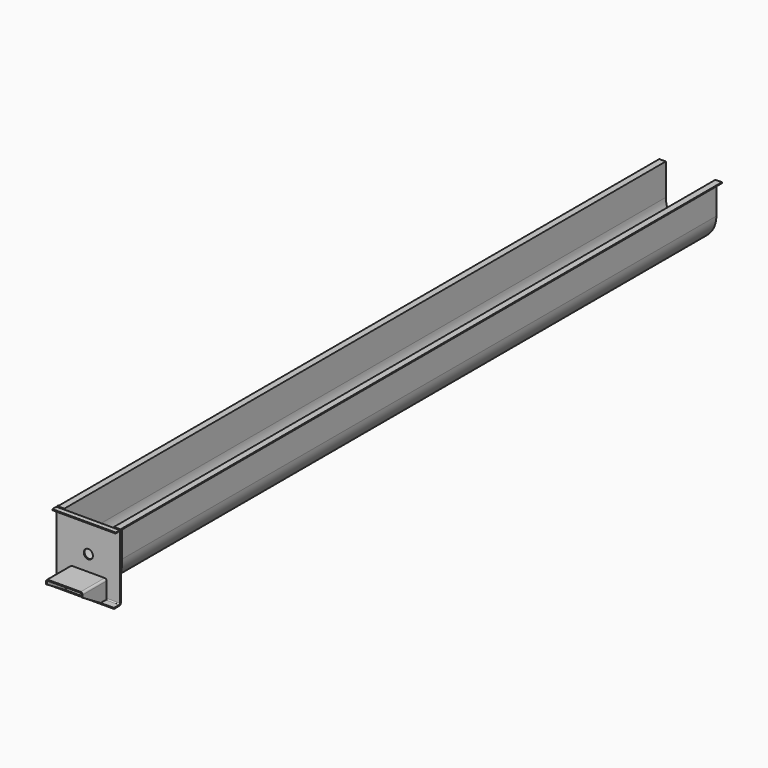
from build123d import *

# Parameters (mm, degrees)
F1_DEPTH  = 7315.2
F3_DEPTH  = 9.525
F5_DEPTH  = 307.975
F6_R      = 44.45
F7_DEPTH  = 9.525
F9_DEPTH  = 292.1
F11_DEPTH = 488.951


with BuildPart() as f1:
    # F0 (on Front) → F1 (new body)
    with BuildSketch(Plane.XZ):
        with BuildLine():
            ThreePointArc((241.3, 0), (0, -241.3), (-241.3, 0))
            Line((-241.3, 0), (-241.3, 307.975))
            Line((-241.3, 307.975), (-304.8, 307.975))
            Line((-304.8, 307.975), (-304.8, 298.45))
            Line((-304.8, 298.45), (-250.825, 298.45))
            Line((-250.825, 298.45), (-250.825, 0))
            ThreePointArc((-250.825, 0), (0, -250.825), (250.825, 0))
            Line((250.825, 0), (250.825, 298.45))
            Line((250.825, 298.45), (304.8, 298.45))
            Line((304.8, 298.45), (304.8, 307.975))
            Line((304.8, 307.975), (241.3, 307.975))
            Line((241.3, 307.975), (241.3, 0))
        make_face()
    extrude(amount=-F1_DEPTH)

    # F2 (on Front) → F3 (join)
    with BuildSketch(Plane.XZ):
        with BuildLine():
            Line((-247.65, 0), (-247.65, 307.975))
            Line((-247.65, 307.975), (-311.15, 307.975))
            Line((-311.15, 307.975), (-311.15, 0))
            ThreePointArc((-311.15, 0), (0, -311.15), (311.15, 0))
            Line((311.15, 0), (311.15, 307.975))
            Line((311.15, 307.975), (247.65, 307.975))
            Line((247.65, 307.975), (247.65, 0))
            ThreePointArc((247.65, 0), (0, -247.65), (-247.65, 0))
        make_face()
    extrude(amount=-F3_DEPTH)

    # F4 (on Right) → F5 (join, symmetric)
    with BuildSketch(Plane.YZ):
        with BuildLine():
            Line((0, -320.675), (0, 288.925))
            ThreePointArc((0, 288.925), (-5.579616, 302.395384), (-19.05, 307.975))
            Line((-19.05, 307.975), (-63.5, 307.975))
            Line((-63.5, 307.975), (-63.5, 298.45))
            Line((-63.5, 298.45), (-19.05, 298.45))
            ThreePointArc((-19.05, 298.45), (-12.314808, 295.660192), (-9.525, 288.925))
            Line((-9.525, 288.925), (-9.525, -320.675))
            ThreePointArc((-9.525, -320.675), (-12.314808, -327.410192), (-19.05, -330.2))
            Line((-19.05, -330.2), (-82.55, -330.2))
            Line((-82.55, -330.2), (-82.55, -339.725))
            Line((-82.55, -339.725), (-19.05, -339.725))
            ThreePointArc((-19.05, -339.725), (-5.579616, -334.145384), (0, -320.675))
        make_face()
    extrude(amount=F5_DEPTH, both=True)

    # F6 (on face) → F7 (cut, through all)
    with BuildSketch(Plane.XZ.offset(9.525)):
        Circle(F6_R)
    extrude(amount=-F7_DEPTH, mode=Mode.SUBTRACT)

    # F8 (on face) → F9 (join)
    with BuildSketch(Plane.XZ.offset(9.525)):
        with BuildLine():
            Line((-177.8, -171.45), (-177.8, -330.2))
            Line((-177.8, -330.2), (-168.275, -330.2))
            Line((-168.275, -330.2), (-168.275, -171.45))
            ThreePointArc((-168.275, -171.45), (-165.485192, -164.714808), (-158.75, -161.925))
            Line((-158.75, -161.925), (158.75, -161.925))
            ThreePointArc((158.75, -161.925), (165.485192, -164.714808), (168.275, -171.45))
            Line((168.275, -171.45), (168.275, -330.2))
            Line((168.275, -330.2), (177.8, -330.2))
            Line((177.8, -330.2), (177.8, -171.45))
            ThreePointArc((177.8, -171.45), (172.220384, -157.979616), (158.75, -152.4))
            Line((158.75, -152.4), (-158.75, -152.4))
            ThreePointArc((-158.75, -152.4), (-172.220384, -157.979616), (-177.8, -171.45))
        make_face()
    extrude(amount=F9_DEPTH)

    # F10 (on face) → F11 (cut, through all)
    with BuildSketch(Plane.YZ.offset(177.8)):
        Polygon((-301.625, -330.2), (-82.55, -330.2), (-301.625, -196.85), align=None)
    extrude(amount=-F11_DEPTH, mode=Mode.SUBTRACT)


solid = f1.part
